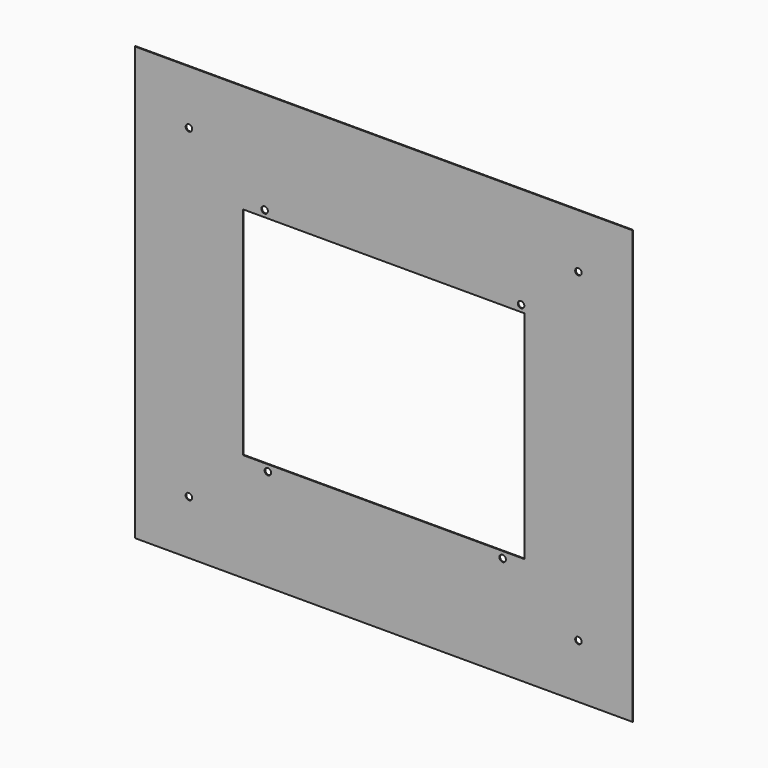
from build123d import *

# Parameters (mm, degrees)
F0_W     = 230
F0_H     = 200
F1_DEPTH = 0.4
F2_W     = 130
F2_H     = 100
F2_R     = 1.5
F3_DEPTH = 25


with BuildPart() as f1:
    # F0 (on Front) → F1 (new body)
    with BuildSketch(Plane.XZ):
        with Locations((3.573909, 22.403086)):
            Rectangle(F0_W, F0_H)
    extrude(amount=F1_DEPTH)

    # F2 (on face) → F3 (cut)
    with BuildSketch(Plane.XZ.offset(0.4)):
        with Locations((3.573909, 22.403086)):
            Rectangle(F2_W, F2_H)
        with Locations((-49.926091, -30.596914)):
            Circle(F2_R)
        with Locations((58.573909, -30.596914)):
            Circle(F2_R)
        with Locations((67.073909, 75.403086)):
            Circle(F2_R)
        with Locations((-51.426091, 75.403086)):
            Circle(F2_R)
        with Locations((-86.426091, -52.596914)):
            Circle(F2_R)
        with Locations((93.573909, -52.596914)):
            Circle(F2_R)
        with Locations((-86.426091, 97.403086)):
            Circle(F2_R)
        with Locations((93.573909, 97.403086)):
            Circle(F2_R)
    extrude(amount=-F3_DEPTH, mode=Mode.SUBTRACT)


solid = f1.part
